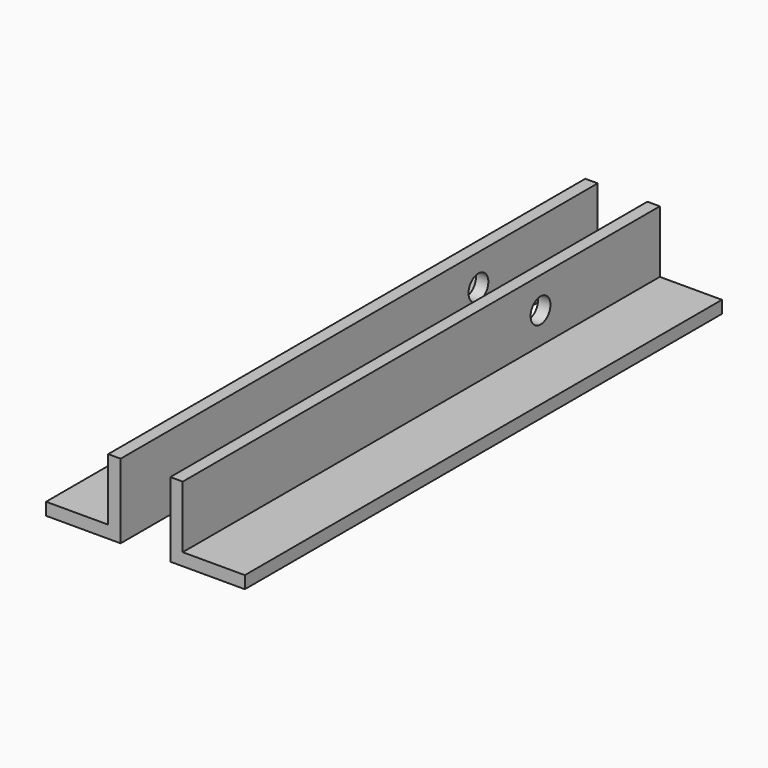
from build123d import *

# Parameters (mm, degrees)
F1_DEPTH = 304.8
F3_D     = 12.7


with BuildPart() as f1:
    # F0 (on Front) → F1 (new body)
    with BuildSketch(Plane.XZ):
        Polygon((-50.8, 0), (-12.7, 0), (-12.7, 38.1), (-19.05, 38.1), (-19.05, 6.35), (-50.8, 6.35), align=None)
        Polygon((12.7, 38.1), (12.7, 0), (50.8, 0), (50.8, 6.35), (19.05, 6.35), (19.05, 38.1), align=None)
    extrude(amount=F1_DEPTH)

    # F3 (through all)
    with Locations(Plane.YZ.offset(19.05)):
        with Locations((-76.2, 22.225)):
            Hole(F3_D / 2)


solid = f1.part
